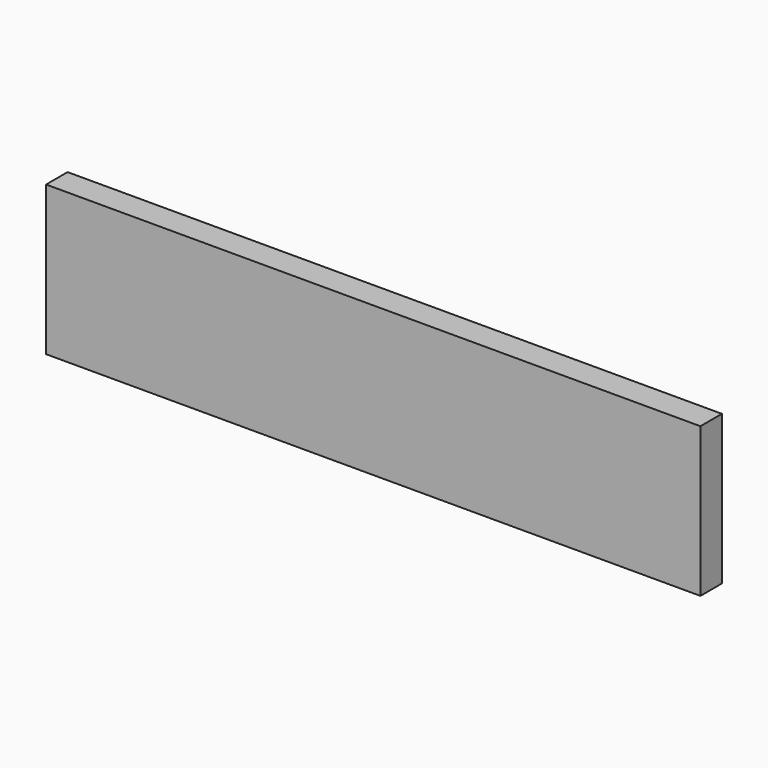
from build123d import *

# Parameters (mm, degrees)
SKETCH_W  = 438
SKETCH_H  = 100
PAD_DEPTH = 18


with BuildPart() as part:
    # Sketch → Pad (new body)
    with BuildSketch(Plane.XZ):
        with Locations((-219, 50)):
            Rectangle(SKETCH_W, SKETCH_H)
    extrude(amount=PAD_DEPTH)


solid = part.part
